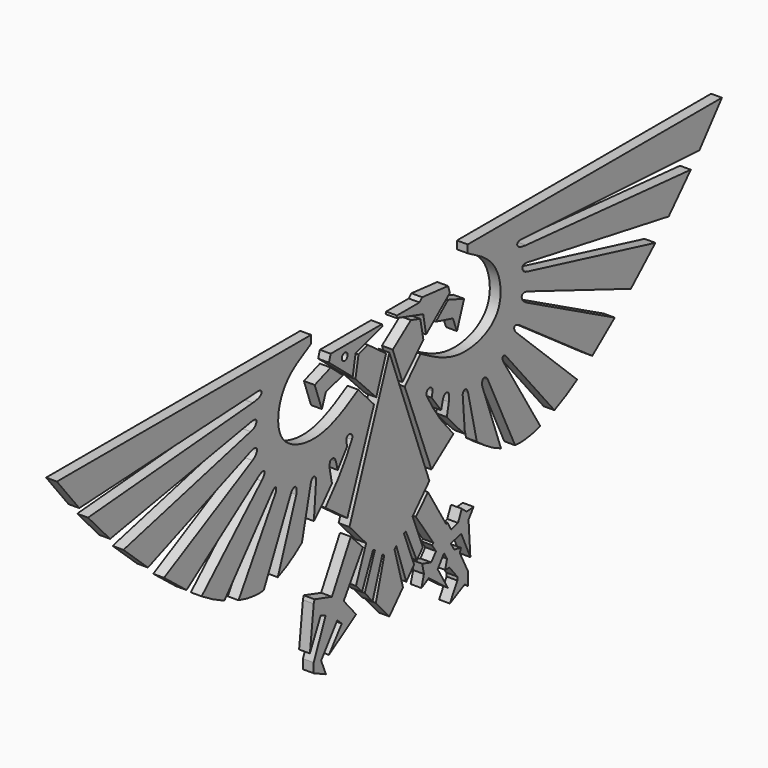
from build123d import *

# Parameters (mm, degrees)
F1_DEPTH = 3
F0_R     = 1.0091379559
F2_SCALE = 0.3463203463


with BuildPart() as f1:
    # F0 (on Right) → F1 (new body)
    with BuildSketch(Plane.YZ):
        Polygon((26.9018902909, -25.1223575324), (13.0223473534, 11.9020799175), (-0.8571955841, -25.1223575324), (4.9636745825, -31.4303301275), (1.4091286575, -40.4614768922), (3.4990191925, -42.7879579365), (7.3293377645, -34.1137647629), (7.9775261693, -34.3999894336), (4.4491509907, -43.4476174414), (7.1686427109, -46.5415306389), (10.6172729284, -36.4124141634), (11.2281730399, -36.9838997722), (8.3116181195, -47.4480316043), (13.0223473534, -52.6631250978), (17.7330765873, -47.4480316043), (14.8165216669, -36.9838997722), (15.4274217784, -36.4124141634), (18.8760519959, -46.5415306389), (21.5955437161, -43.4476174414), (18.0671685375, -34.3999894336), (18.7153569423, -34.1137647629), (22.5456755143, -42.7879579365), (24.6355660493, -40.4614768922), (21.0810201243, -31.4303301275), align=None)
    extrude(amount=F1_DEPTH)


with BuildPart() as f1b:
    # F0 (on Right) → F1, piece 2 (new body)
    with BuildSketch(Plane.YZ):
        with BuildLine():
            Line((-14.1938012093, 27.3126158863), (-102.4985089898, 27.3126158863))
            add(Edge.make_bspline(
                [(-102.4985089898, 27.3126158863), (-99.9619126127, 24.1090405883), (-97.4253162357, 20.9054652902), (-94.7059217084, 17.6453367445)],
                knots=[0, 0, 0, 0, 0.082702113, 0.082702113, 0.082702113, 0.082702113], degree=3))
            Line((-94.7059217084, 17.6453367445), (-32.8317876335, 20.9945884592))
            add(Edge.make_bspline(
                [(-32.8317876335, 20.9945884592), (-32.4126966298, 21.017273888), (-31.8089232387, 20.9630664456), (-31.1741626098, 20.361001089), (-31.9066649143, 19.1873910459), (-33.4629379918, 19.0123200193), (-34.4179879129, 18.9040254339)],
                knots=[0, 0, 0, 0, 0.2300421479, 0.4118390704, 0.6396648681, 1, 1, 1, 1], degree=3))
            Line((-34.4179879129, 18.9040254339), (-91.6833042112, 14.0927854935))
            add(Edge.make_bspline(
                [(-91.6833042112, 14.0927854935), (-89.3266092961, 11.3809657084), (-86.8027855492, 8.6174403771), (-84.0111523867, 5.7710614055)],
                knots=[0.1125330876, 0.1125330876, 0.1125330876, 0.1125330876, 0.1803244843, 0.1803244843, 0.1803244843, 0.1803244843], degree=3))
            Line((-84.0111523867, 5.7710614055), (-34.978017211, 14.490056783))
            add(Edge.make_bspline(
                [(-34.978017211, 14.490056783), (-34.4324409962, 14.5848952234), (-33.9423265914, 14.5875337376), (-32.902823663, 14.2495290228), (-33.5383956271, 12.4888401112), (-34.7297526896, 12.3105235398), (-35.1939427622, 12.1793237309)],
                knots=[0, 0, 0, 0, 0.2418153291, 0.4392526042, 0.7104139548, 1, 1, 1, 1], degree=3))
            Line((-35.1939427622, 12.1793237309), (-79.3828323699, 1.2047137071))
            add(Edge.make_bspline(
                [(-79.3828323699, 1.2047137071), (-76.6234784147, -1.4370090429), (-73.7312431827, -4.0766146678), (-70.8634164333, -6.5907744926)],
                knots=[0.2162132214, 0.2162132214, 0.2162132214, 0.2162132214, 0.2782042888, 0.2782042888, 0.2782042888, 0.2782042888], degree=3))
            Line((-70.8634164333, -6.5907744926), (-35.2679053693, 7.2472164734))
            add(Edge.make_bspline(
                [(-35.2679053693, 7.2472164734), (-34.4680808485, 7.5720096938), (-32.4493092717, 7.900137394), (-32.9764224589, 5.7166479528), (-34.4907315838, 4.8463504027)],
                knots=[0, 0, 0, 0, 0.4643675461, 1, 1, 1, 1], degree=3))
            Line((-34.4907315838, 4.8463504027), (-65.2737244954, -11.3598940118))
            add(Edge.make_bspline(
                [(-65.2737244954, -11.3598940118), (-62.4841078107, -13.6737042293), (-59.8245522579, -15.7775178198), (-57.4561581016, -17.5450183451)],
                knots=[0.3190326116, 0.3190326116, 0.3190326116, 0.3190326116, 0.381520289, 0.381520289, 0.381520289, 0.381520289], degree=3))
            Line((-57.4561581016, -17.5450183451), (-32.551471144, 0))
            add(Edge.make_bspline(
                [(-32.551471144, 0), (-31.7302830517, 0.6405821186), (-29.8912175207, 1.2427408919), (-30.3793139756, -0.561576162), (-31.3962254016, -1.4387563827)],
                knots=[0, 0, 0, 0, 0.4938370806, 1, 1, 1, 1], degree=3))
            Line((-31.3962254016, -1.4387563827), (-52.2187513806, -21.2110124328))
            add(Edge.make_bspline(
                [(-52.2187513806, -21.2110124328), (-49.5263615571, -22.945772471), (-47.0502282075, -24.2739667553), (-44.3068742752, -25.4951994866)],
                knots=[0.4315638299, 0.4315638299, 0.4315638299, 0.4315638299, 0.514190439, 0.514190439, 0.514190439, 0.514190439], degree=3))
            Line((-44.3068742752, -25.4951994866), (-27.6147052646, -5.5988081731))
            add(Edge.make_bspline(
                [(-27.6147052646, -5.5988081731), (-27.1783055279, -5.0596177405), (-26.1659054425, -4.5139646353), (-26.2439083308, -5.9154243208), (-26.6117838184, -6.5232633251)],
                knots=[0, 0, 0, 0, 0.4791858024, 1, 1, 1, 1], degree=3))
            Line((-26.6117838184, -6.5232633251), (-39.3925010931, -27.3871169947))
            add(Edge.make_bspline(
                [(-39.3925010931, -27.3871169947), (-36.534677731, -28.2849753495), (-33.5523546145, -28.8164248606), (-30.6518431753, -28.5307243466)],
                knots=[0.5613411721, 0.5613411721, 0.5613411721, 0.5613411721, 0.6407743481, 0.6407743481, 0.6407743481, 0.6407743481], degree=3))
            Line((-30.6518431753, -28.5307243466), (-21.2554801255, -8.7795453146))
            add(Edge.make_bspline(
                [(-21.2554801255, -8.7795453146), (-20.8078287542, -7.8411744907), (-19.3335825315, -6.9261953376), (-19.0231651068, -8.8024875149), (-19.3282731458, -9.7071455943)],
                knots=[0, 0, 0, 0, 0.4926443995, 1, 1, 1, 1], degree=3))
            Line((-19.3282731458, -9.7071455943), (-25.7489161312, -27.3026074179))
            add(Edge.make_bspline(
                [(-25.7489161312, -27.3026074179), (-22.7958728423, -26.1381268157), (-19.9744663704, -24.3007624106), (-17.3580590636, -22.2428515553)],
                knots=[0.6863762618, 0.6863762618, 0.6863762618, 0.6863762618, 0.7705640209, 0.7705640209, 0.7705640209, 0.7705640209], degree=3))
            Line((-17.3580590636, -22.2428515553), (-14.3105359748, -9.0306559578))
            add(Edge.make_bspline(
                [(-14.3105359748, -9.0306559578), (-14.1121633351, -8.2530789077), (-13.3922275103, -7.325123159), (-12.4047715217, -8.1986850128), (-12.4419658479, -8.8090440639)],
                knots=[0, 0, 0, 0, 0.5245279725, 1, 1, 1, 1], degree=3))
            Line((-12.4419658479, -8.8090440639), (-13.2143244856, -18.6651922967))
            add(Edge.make_bspline(
                [(-13.2143244856, -18.6651922967), (-10.937112488, -16.5236569624), (-8.7987087167, -14.2073087071), (-7.0069783869, -12.0742262568), (-6.9260330338, -11.9774013745)],
                knots=[0.8171935311, 0.8171935311, 0.8171935311, 0.8171935311, 0.8983564698, 0.9022310841, 0.9022310841, 0.9022310841, 0.9022310841], degree=3))
            Line((-6.9260330338, -11.9774013745), (-7.6290870595, -8.5729802171))
            add(Edge.make_bspline(
                [(-7.6290870595, -8.5729802171), (-7.8976182267, -7.2652506642), (-7.6883761519, -5.4744179701), (-5.8481991291, -6.0314536095), (-5.5849096622, -7.1053284934)],
                knots=[0, 0, 0, 0, 0.5352218177, 1, 1, 1, 1], degree=3))
            Line((-5.5849096622, -7.1053284934), (-4.9487002832, -9.5189351387))
            add(Edge.make_bspline(
                [(-4.9487002832, -9.5189351387), (-3.7767628084, -8.0070097098), (-2.728412364, -6.5604174559), (-1.6800619196, -5.113825202)],
                knots=[0.9360091531, 0.9360091531, 0.9360091531, 0.9360091531, 1, 1, 1, 1], degree=3))
            Line((-1.6800619196, -5.113825202), (-1.957972534, -3.5819811746))
            add(Edge.make_bspline(
                [(-1.957972534, -3.5819811746), (-2.0544033032, -2.7070560027), (-0.7035760208, -1.8839280227), (0.46228274, -3.1614117324), (0, -4.1037350893)],
                knots=[0, 0, 0, 0, 0.4849022614, 1, 1, 1, 1], degree=3))
            add(Edge.make_bspline(
                [(-9.2206122354, -17.0155055821), (-7.4450283278, -15.0076325969), (-3.9053059007, -11.0048293465), (-1.2989595013, -6.3991358037), (0, -4.1037350893)],
                knots=[0, 0, 0, 0, 0.501616707, 1, 1, 1, 1], degree=3))
            Line((-9.2206122354, -17.0155055821), (-1.59008021, -22.6511266083))
            Line((-1.59008021, -22.6511266083), (7.6862517744, 1.3875428122))
            Line((7.6862517744, 1.3875428122), (2.2223971318, 7.2157862596))
            add(Edge.make_bspline(
                [(-14.1938012093, 25.129802525), (-17.888801952, 23.1946989619), (-25.2009265097, 19.36527665), (-27.0406554998, 4.3041815007), (-11.0508577739, -0.5028377904), (-2.3092472415, 4.5805577874), (2.2223971318, 7.2157862596)],
                knots=[0, 0, 0, 0, 0.2407294487, 0.4763852124, 0.7285584851, 1, 1, 1, 1], degree=3))
            Line((-14.1938012093, 25.129802525), (-14.1938012093, 27.3126158863))
        make_face()
    extrude(amount=F1_DEPTH)


with BuildPart() as f1c:
    # F0 (on Right) → F1, piece 3 (new body)
    with BuildSketch(Plane.YZ):
        Polygon((2.2939657792, 15.8107597381), (1.216991106, 10.2627072483), (8.4620937705, 2.8217914514), (11.8561955169, 12.1555719525), (5.5575254373, 16.8224629015), align=None)
    extrude(amount=F1_DEPTH)


with BuildPart() as f1d:
    # F0 (on Right) → F1, piece 4 (new body)
    with BuildSketch(Plane.YZ):
        Polygon((-7.3686693795, 19.9211500585), (-7.9732900485, 17.9863646626), (0.2797793713, 11.1541524529), (1.2774028583, 16.5352746844), (10.5885593221, 19.3467605859), (10.4151235184, 19.9211500585), align=None)
        with Locations((-2.5053562133, 17.2195502868)):
            Circle(F0_R, mode=Mode.SUBTRACT)
    extrude(amount=F1_DEPTH)


with BuildPart() as f1e:
    # F0 (on Right) → F1, piece 5 (new body)
    with BuildSketch(Plane.YZ):
        Polygon((-3.1060948968, 12.9075516015), (-7.3686693795, 16.5352746844), (-12.9311773926, 14.5400268957), (-10.4477172727, 7.6164423188), (-9.0196224196, 11.3172046603), align=None)
    extrude(amount=F1_DEPTH)


with BuildPart() as f1f:
    # F0 (on Right) → F1, piece 6 (new body)
    with BuildSketch(Plane.YZ):
        Polygon((14.1884991899, 12.1555719525), (17.5826009363, 2.8217914514), (24.8277036007, 10.2627072483), (23.7507289276, 15.8107597381), (20.4871692695, 16.8224629015), align=None)
    extrude(amount=F1_DEPTH)


with BuildPart() as f1g:
    # F0 (on Right) → F1, piece 7 (new body)
    with BuildSketch(Plane.YZ):
        Polygon((38.9758720994, 14.5400268957), (33.4133640863, 16.5352746844), (29.1507896036, 12.9075516015), (35.0643171264, 11.3172046603), (36.4924119795, 7.6164423188), align=None)
    extrude(amount=F1_DEPTH)


with BuildPart() as f1h:
    # F0 (on Right) → F1, piece 8 (new body)
    with BuildSketch(Plane.YZ):
        with BuildLine():
            Line((18.3584429324, 1.3875428122), (27.6347749168, -22.6511266083))
            Line((27.6347749168, -22.6511266083), (35.2653069422, -17.0155055821))
            add(Edge.make_bspline(
                [(35.2653069422, -17.0155055821), (33.4897230346, -15.0076325969), (29.9500006075, -11.0048293465), (27.3436542081, -6.3991358037), (26.0446947068, -4.1037350893)],
                knots=[0, 0, 0, 0, 0.501616707, 1, 1, 1, 1], degree=3))
            add(Edge.make_bspline(
                [(28.0026672408, -3.5819811746), (28.09909801, -2.7070560027), (26.7482707276, -1.8839280227), (25.5824119668, -3.1614117324), (26.0446947068, -4.1037350893)],
                knots=[0, 0, 0, 0, 0.4849022614, 1, 1, 1, 1], degree=3))
            Line((28.0026672408, -3.5819811746), (27.7247566264, -5.113825202))
            add(Edge.make_bspline(
                [(30.99339499, -9.5189351387), (29.8214575152, -8.0070097098), (28.7731070708, -6.5604174559), (27.7247566264, -5.113825202)],
                knots=[0.9360091531, 0.9360091531, 0.9360091531, 0.9360091531, 1, 1, 1, 1], degree=3))
            Line((30.99339499, -9.5189351387), (31.629604369, -7.1053284934))
            add(Edge.make_bspline(
                [(33.6737817663, -8.5729802171), (33.9423129335, -7.2652506642), (33.7330708587, -5.4744179701), (31.8928938359, -6.0314536095), (31.629604369, -7.1053284934)],
                knots=[0, 0, 0, 0, 0.5352218177, 1, 1, 1, 1], degree=3))
            Line((33.6737817663, -8.5729802171), (32.9707277406, -11.9774013745))
            add(Edge.make_bspline(
                [(39.2590191924, -18.6651922967), (36.9818071948, -16.5236569624), (34.8434034235, -14.2073087071), (33.0516730937, -12.0742262568), (32.9707277406, -11.9774013745)],
                knots=[0.8171935311, 0.8171935311, 0.8171935311, 0.8171935311, 0.8983564698, 0.9022310841, 0.9022310841, 0.9022310841, 0.9022310841], degree=3))
            Line((39.2590191924, -18.6651922967), (38.4866605547, -8.8090440639))
            add(Edge.make_bspline(
                [(40.3552306816, -9.0306559578), (40.1568580419, -8.2530789077), (39.4369222171, -7.325123159), (38.4494662285, -8.1986850128), (38.4866605547, -8.8090440639)],
                knots=[0, 0, 0, 0, 0.5245279725, 1, 1, 1, 1], degree=3))
            Line((40.3552306816, -9.0306559578), (43.4027537704, -22.2428515553))
            add(Edge.make_bspline(
                [(51.7936108379, -27.3026074179), (48.8405675491, -26.1381268157), (46.0191610772, -24.3007624106), (43.4027537704, -22.2428515553)],
                knots=[0.6863762618, 0.6863762618, 0.6863762618, 0.6863762618, 0.7705640209, 0.7705640209, 0.7705640209, 0.7705640209], degree=3))
            Line((51.7936108379, -27.3026074179), (45.3729678526, -9.7071455943))
            add(Edge.make_bspline(
                [(47.3001748323, -8.7795453146), (46.852523461, -7.8411744907), (45.3782772383, -6.9261953376), (45.0678598136, -8.8024875149), (45.3729678526, -9.7071455943)],
                knots=[0, 0, 0, 0, 0.4926443995, 1, 1, 1, 1], degree=3))
            Line((47.3001748323, -8.7795453146), (56.6965378821, -28.5307243466))
            add(Edge.make_bspline(
                [(65.4371957999, -27.3871169947), (62.5793724378, -28.2849753495), (59.5970493213, -28.8164248606), (56.6965378821, -28.5307243466)],
                knots=[0.5613411721, 0.5613411721, 0.5613411721, 0.5613411721, 0.6407743481, 0.6407743481, 0.6407743481, 0.6407743481], degree=3))
            Line((65.4371957999, -27.3871169947), (52.6564785252, -6.5232633251))
            add(Edge.make_bspline(
                [(53.6593999714, -5.5988081731), (53.2230002347, -5.0596177405), (52.2106001493, -4.5139646353), (52.2886030376, -5.9154243208), (52.6564785252, -6.5232633251)],
                knots=[0, 0, 0, 0, 0.4791858024, 1, 1, 1, 1], degree=3))
            Line((53.6593999714, -5.5988081731), (70.351568982, -25.4951994866))
            add(Edge.make_bspline(
                [(78.2634460874, -21.2110124328), (75.5710562639, -22.945772471), (73.0949229143, -24.2739667553), (70.351568982, -25.4951994866)],
                knots=[0.4315638299, 0.4315638299, 0.4315638299, 0.4315638299, 0.514190439, 0.514190439, 0.514190439, 0.514190439], degree=3))
            Line((78.2634460874, -21.2110124328), (57.4409201084, -1.4387563827))
            add(Edge.make_bspline(
                [(58.5961658508, 0), (57.7749777585, 0.6405821186), (55.9359122275, 1.2427408919), (56.4240086824, -0.561576162), (57.4409201084, -1.4387563827)],
                knots=[0, 0, 0, 0, 0.4938370806, 1, 1, 1, 1], degree=3))
            Line((58.5961658508, 0), (83.5008528084, -17.5450183451))
            add(Edge.make_bspline(
                [(91.3184192022, -11.3598940118), (88.5288025175, -13.6737042293), (85.8692469647, -15.7775178198), (83.5008528084, -17.5450183451)],
                knots=[0.3190326116, 0.3190326116, 0.3190326116, 0.3190326116, 0.381520289, 0.381520289, 0.381520289, 0.381520289], degree=3))
            Line((91.3184192022, -11.3598940118), (60.5354262906, 4.8463504027))
            add(Edge.make_bspline(
                [(61.3126000761, 7.2472164734), (60.5127755553, 7.5720096938), (58.4940039785, 7.900137394), (59.0211171657, 5.7166479528), (60.5354262906, 4.8463504027)],
                knots=[0, 0, 0, 0, 0.4643675461, 1, 1, 1, 1], degree=3))
            Line((61.3126000761, 7.2472164734), (96.9081111401, -6.5907744926))
            add(Edge.make_bspline(
                [(105.4275270767, 1.2047137071), (102.6681731215, -1.4370090429), (99.7759378895, -4.0766146678), (96.9081111401, -6.5907744926)],
                knots=[0.2162132214, 0.2162132214, 0.2162132214, 0.2162132214, 0.2782042888, 0.2782042888, 0.2782042888, 0.2782042888], degree=3))
            Line((105.4275270767, 1.2047137071), (61.238637469, 12.1793237309))
            add(Edge.make_bspline(
                [(61.0227119178, 14.490056783), (60.477135703, 14.5848952234), (59.9870212982, 14.5875337376), (58.9475183698, 14.2495290228), (59.5830903339, 12.4888401112), (60.7744473964, 12.3105235398), (61.238637469, 12.1793237309)],
                knots=[0, 0, 0, 0, 0.2418153291, 0.4392526042, 0.7104139548, 1, 1, 1, 1], degree=3))
            Line((61.0227119178, 14.490056783), (110.0558470935, 5.7710614055))
            add(Edge.make_bspline(
                [(117.727998918, 14.0927854935), (115.3713040029, 11.3809657084), (112.847480256, 8.6174403771), (110.0558470935, 5.7710614055)],
                knots=[0.1125330876, 0.1125330876, 0.1125330876, 0.1125330876, 0.1803244843, 0.1803244843, 0.1803244843, 0.1803244843], degree=3))
            Line((117.727998918, 14.0927854935), (60.4626826197, 18.9040254339))
            add(Edge.make_bspline(
                [(58.8764823403, 20.9945884592), (58.4573913366, 21.017273888), (57.8536179455, 20.9630664456), (57.2188573166, 20.361001089), (57.9513596211, 19.1873910459), (59.5076326986, 19.0123200193), (60.4626826197, 18.9040254339)],
                knots=[0, 0, 0, 0, 0.2300421479, 0.4118390704, 0.6396648681, 1, 1, 1, 1], degree=3))
            Line((58.8764823403, 20.9945884592), (120.7506164152, 17.6453367445))
            add(Edge.make_bspline(
                [(128.5432036966, 27.3126158863), (126.0066073195, 24.1090405883), (123.4700109425, 20.9054652902), (120.7506164152, 17.6453367445)],
                knots=[0, 0, 0, 0, 0.082702113, 0.082702113, 0.082702113, 0.082702113], degree=3))
            Line((128.5432036966, 27.3126158863), (40.2384959161, 27.3126158863))
            Line((40.2384959161, 27.3126158863), (40.2384959161, 25.129802525))
            add(Edge.make_bspline(
                [(40.2384959161, 25.129802525), (43.9334966588, 23.1946989619), (51.2456212165, 19.36527665), (53.0853502066, 4.3041815007), (37.0955524807, -0.5028377904), (28.3539419483, 4.5805577874), (23.822297575, 7.2157862596)],
                knots=[0, 0, 0, 0, 0.2407294487, 0.4763852124, 0.7285584851, 1, 1, 1, 1], degree=3))
            Line((23.822297575, 7.2157862596), (18.3584429324, 1.3875428122))
        make_face()
    extrude(amount=F1_DEPTH)


with BuildPart() as f1i:
    # F0 (on Right) → F1, piece 9 (new body)
    with BuildSketch(Plane.YZ):
        Polygon((25.7649153355, 11.1541524529), (34.0179847553, 17.9863646626), (33.4133640863, 19.9211500585), (24.4151577353, 20.8222679794), (23.4878063202, 19.9211500585), (15.6295711884, 19.9211500585), (15.4561353847, 19.3467605859), (24.7672918485, 16.5352746844), align=None)
    extrude(amount=F1_DEPTH)


with BuildPart() as f1j:
    # F0 (on Right) → F1, piece 10 (new body)
    with BuildSketch(Plane.YZ):
        Polygon((-2.8463841882, -42.4373075366), (3.8177582901, -32.0090577006), (-0.3867017222, -27.6753902435), (-6.9555831142, -39.7094003856), (-12.9704624414, -37.8884635866), (-13.2678965745, -38.8709416269), (-14.5965991542, -50.4825599492), (-10.8674392104, -42.7346453071), (-9.1275120317, -43.4194587891), (-13.2678965745, -53.2498881221), (-13.2678965745, -55.8649897575), (-9.0130753815, -57.842258364), (-10.6920972466, -53.8239330053), (-5.0816675648, -46.2289080024), (-3.5266878549, -47.6629137993), (-7.9729575664, -53.5204559565), (1.4541068813, -47.4198609591), align=None)
    extrude(amount=F1_DEPTH)


with BuildPart() as f1k:
    # F0 (on Right) → F1, piece 11 (new body)
    with BuildSketch(Plane.YZ):
        Polygon((26.431396429, -27.6753902435), (22.2269364167, -32.0090577006), (28.330668807, -40.8653877676), (27.8130314257, -41.2221405113), (29.2294738368, -43.2773553719), (27.5355502963, -45.3196242452), (24.4345907122, -44.40491274), (25.0309295952, -47.1490398049), (24.1495966911, -50.226137042), (26.6939159483, -48.8542467356), (33.3163700998, -53.89053002), (29.7976266593, -47.9155816138), (31.9990962744, -44.9010282755), (33.045694232, -46.6700457036), (32.4141271412, -49.1611137986), (33.8757559657, -49.1611137986), (36.6220548749, -52.506826818), (36.6220548749, -53.4587129951), (34.0317301452, -58.0330491066), (39.1859486699, -55.4418042302), (40.2432233095, -56.2614835799), (40.2432233095, -52.5332689285), (37.4678745866, -47.059930861), (37.8643535078, -45.9493994713), (35.5119146407, -45.420575887), (34.3177653849, -43.4579849243), (37.9840172827, -42.5734594464), (41.1477610469, -49.5798774064), (40.5174195766, -40.1212908328), (42.2823950648, -37.7125032246), (39.8492477834, -37.9142872989), (38.1725169718, -36.5018099546), (36.8613898754, -39.4528880715), (34.4408452511, -40.1591286063), (33.2000218332, -37.8901585937), (32.7805687491, -38.1195433835), align=None)
    extrude(amount=F1_DEPTH)


with BuildPart() as f1k_1:
    # F2: moved
    add(f1k.part.scale(F2_SCALE).moved(Location((1.961038961, 84.0260768753, 17.8537012937))))


with BuildPart() as f1b_1:
    # F2: moved
    add(f1b.part.scale(F2_SCALE).moved(Location((1.961038961, 84.0260768753, 17.8537012937))))


with BuildPart() as f1e_1:
    # F2: moved
    add(f1e.part.scale(F2_SCALE).moved(Location((1.961038961, 84.0260768753, 17.8537012937))))


with BuildPart() as f1d_1:
    # F2: moved
    add(f1d.part.scale(F2_SCALE).moved(Location((1.961038961, 84.0260768753, 17.8537012937))))


with BuildPart() as f1c_1:
    # F2: moved
    add(f1c.part.scale(F2_SCALE).moved(Location((1.961038961, 84.0260768753, 17.8537012937))))


with BuildPart() as f1_1:
    # F2: moved
    add(f1.part.scale(F2_SCALE).moved(Location((1.961038961, 84.0260768753, 17.8537012937))))


with BuildPart() as f1j_1:
    # F2: moved
    add(f1j.part.scale(F2_SCALE).moved(Location((1.961038961, 84.0260768753, 17.8537012937))))


with BuildPart() as f1f_1:
    # F2: moved
    add(f1f.part.scale(F2_SCALE).moved(Location((1.961038961, 84.0260768753, 17.8537012937))))


with BuildPart() as f1h_1:
    # F2: moved
    add(f1h.part.scale(F2_SCALE).moved(Location((1.961038961, 84.0260768753, 17.8537012937))))


with BuildPart() as f1g_1:
    # F2: moved
    add(f1g.part.scale(F2_SCALE).moved(Location((1.961038961, 84.0260768753, 17.8537012937))))


with BuildPart() as f1i_1:
    # F2: moved
    add(f1i.part.scale(F2_SCALE).moved(Location((1.961038961, 84.0260768753, 17.8537012937))))


solid = Compound([f1k_1.part, f1b_1.part, f1e_1.part, f1d_1.part, f1c_1.part, f1_1.part, f1j_1.part, f1f_1.part, f1h_1.part, f1g_1.part, f1i_1.part])
